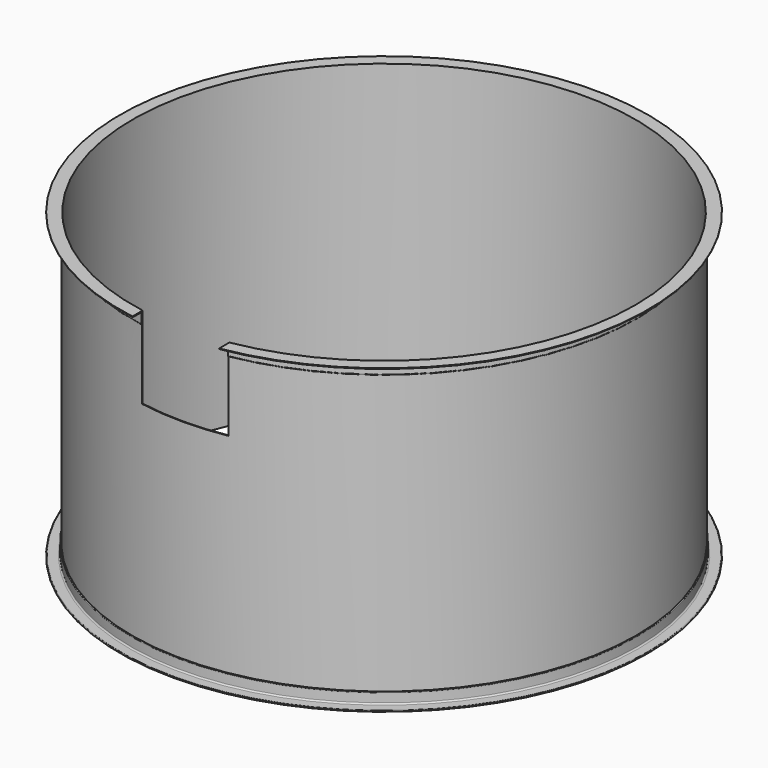
from build123d import *

# Parameters (mm, degrees)
SKETCH001_W   = 550
SKETCH001_H   = 520
EXTRUDE_DEPTH = 2500
SKETCH_W      = 5
SKETCH_H      = 1920


with BuildPart() as extrude_body:
    # Sketch001 → Extrude (new body)
    with BuildSketch(Plane.XZ):
        with Locations((0, 1660)):
            Rectangle(SKETCH001_W, SKETCH001_H)
    extrude(amount=EXTRUDE_DEPTH)


with BuildPart() as revolve001:
    # AngleSteel → Revolve001 (revolve)
    with BuildSketch(Plane(origin=(1620.58985, 0, 20.58985), x_dir=(1, 0, 0), z_dir=(0, 1, 0))):
        with BuildLine():
            Line((-20.58985, 20.58985), (-20.58985, -54.41015))
            Line((-20.58985, -54.41015), (-18.58985, -54.41015))
            ThreePointArc((-18.58985, -54.41015), (-15.761423, -53.238577), (-14.58985, -50.41015))
            Line((-14.58985, -50.41015), (-14.58985, 6.08985))
            ThreePointArc((-14.58985, 6.08985), (-12.100258, 12.100258), (-6.08985, 14.58985))
            Line((-6.08985, 14.58985), (50.41015, 14.58985))
            ThreePointArc((50.41015, 14.58985), (53.238577, 15.761423), (54.41015, 18.58985))
            Line((54.41015, 18.58985), (54.41015, 20.58985))
            Line((54.41015, 20.58985), (-20.58985, 20.58985))
        make_face()
    revolve(axis=Axis((0, 0, 0), (0, 0, 1)))


with BuildPart() as revolve002:
    # AngleSteel001 → Revolve002 (revolve)
    with BuildSketch(Plane(origin=(1620.58985, 0, 1899.41015), x_dir=(1, 0, 0), z_dir=(0, 1, 0))):
        with BuildLine():
            Line((-20.58985, -20.58985), (54.41015, -20.58985))
            Line((54.41015, -20.58985), (54.41015, -18.58985))
            ThreePointArc((54.41015, -18.58985), (53.238577, -15.761423), (50.41015, -14.58985))
            Line((50.41015, -14.58985), (-6.08985, -14.58985))
            ThreePointArc((-6.08985, -14.58985), (-12.100258, -12.100258), (-14.58985, -6.08985))
            Line((-14.58985, -6.08985), (-14.58985, 50.41015))
            ThreePointArc((-14.58985, 50.41015), (-15.761423, 53.238577), (-18.58985, 54.41015))
            Line((-18.58985, 54.41015), (-20.58985, 54.41015))
            Line((-20.58985, 54.41015), (-20.58985, -20.58985))
        make_face()
    revolve(axis=Axis((0, 0, 0), (0, 0, 1)))


with BuildPart() as cut:
    # Sketch → Revolve (revolve)
    with BuildSketch(Plane.XZ):
        with Locations((1597.5, 960)):
            Rectangle(SKETCH_W, SKETCH_H)
    revolve(axis=Axis((0, 0, 0), (0, 0, 1)))

    # Fusion: union Revolve001, Revolve002
    add(revolve001.part)
    add(revolve002.part)

    # Cut: cut Extrude body
    add(extrude_body.part, mode=Mode.SUBTRACT)


solid = cut.part
